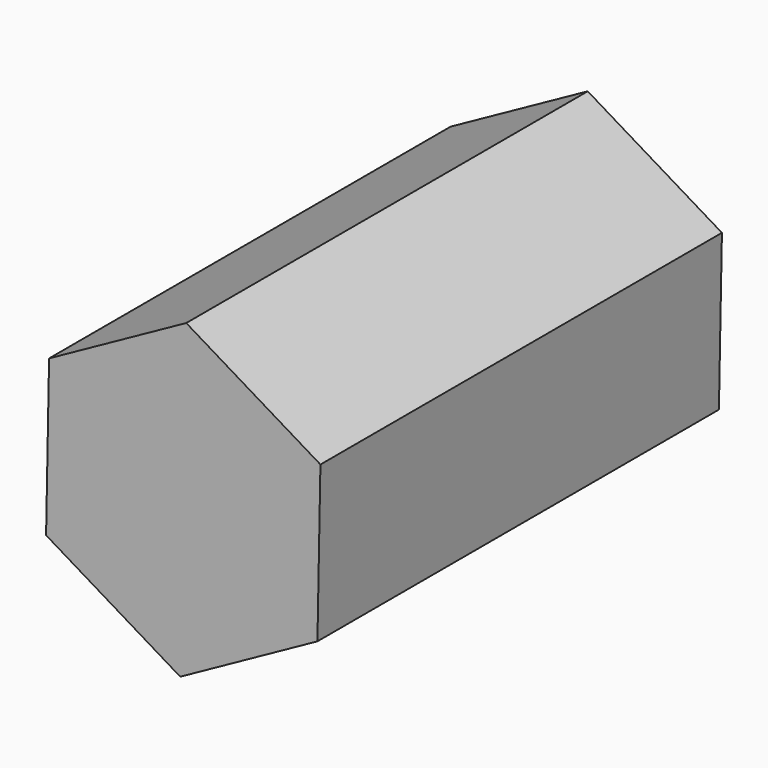
from build123d import *

# Parameters (mm, degrees)
F1_DEPTH = 50.8
F2_SIZE  = 5.08
F3_W     = 6.35
F3_H     = 6.35
F4_DEPTH = 38.1


with BuildPart() as f1:
    # F0 (on Front) → F1 (new body)
    with BuildSketch(Plane.XZ):
        Polygon((12.496759, 6.899342), (0.273374, 14.272182), (-12.223385, 7.37284), (-12.496759, -6.899342), (-0.273374, -14.272182), (12.223385, -7.37284), align=None)
    extrude(amount=F1_DEPTH)

    # F2
    f2_edges = [f1.edges().sort_by_distance(p)[0] for p in [
        (6.385067, 0, 10.585762),
        (12.360072, 0, -0.236749),
        (5.975005, 0, -10.822511),
        (-6.385067, 0, -10.585762),
        (-12.360072, 0, 0.236749),
        (-5.975005, 0, 10.822511),
    ]]
    chamfer(f2_edges, length=F2_SIZE)

    # F3 (on face) → F4 (cut)
    with BuildSketch(Plane(origin=(0, 0, 0), x_dir=(-1, 0, 0), z_dir=(0, 1, 0))):
        Rectangle(F3_W, F3_H)
    extrude(amount=-F4_DEPTH, mode=Mode.SUBTRACT)


solid = f1.part
